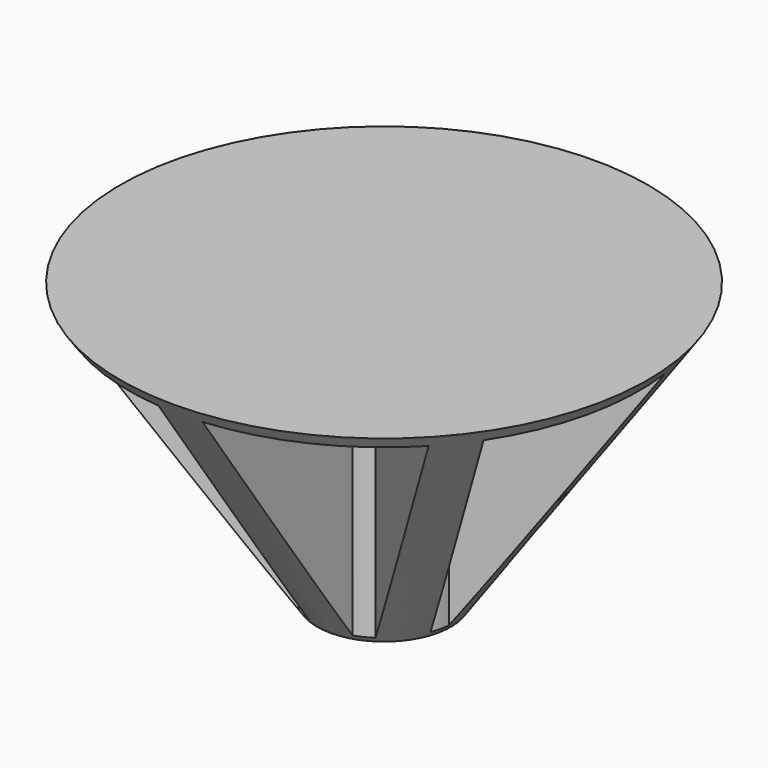
from build123d import *

# Parameters (mm, degrees)
F3_DEPTH = 38.862


with BuildPart() as f1:
    # F0 (on Right) → F1 (revolve)
    with BuildSketch(Plane.YZ):
        Polygon((-28.4521765367, 40.6339192084), (0, 0), (9.6478234633, 0), (9.6478234633, 40.6339192084), align=None)
    revolve(axis=Axis((0, 9.6478234633, 20.3169596042), (0, 0, 1)))

    # F2 (on face) → F3 (cut)
    with BuildSketch(Plane(origin=(0, 0, 0), x_dir=(1, 0, 0), z_dir=(0, 0, -1))):
        with BuildLine():
            ThreePointArc((-5.563392, -1.150188967), (-4.4068818173, -0.4968390776), (-3.175, 0))
            Line((-3.175, 0), (-3.175, 28.6594695933))
            ThreePointArc((-3.175, 28.6594695933), (-16.6779024372, 24.9841977976), (-27.9702675988, 16.7186980512))
            Line((-27.9702675988, 16.7186980512), (-5.563392, -1.1501889669))
        make_face()
        with BuildLine():
            ThreePointArc((3.175, 0), (4.4068818173, -0.4968390776), (5.563392, -1.150188967))
            Line((5.563392, -1.1501889669), (27.9702675988, 16.7186980512))
            ThreePointArc((27.9702675988, 16.7186980512), (16.6779024372, 24.9841977976), (3.175, 28.6594695933))
            Line((3.175, 28.6594695933), (3.175, 0))
        make_face()
        with BuildLine():
            ThreePointArc((9.5225522418, -6.1148188806), (9.9021735593, -7.3877169661), (10.1124363514, -8.6992700298))
            Line((10.1124363514, -8.6992700298), (38.0533532063, -15.0766019704))
            ThreePointArc((38.0533532063, -15.0766019704), (38.3422000558, -12.369040324), (38.4386436587, -9.6478234633))
            ThreePointArc((38.4386436587, -9.6478234633), (36.7753533315, 1.5371089757), (31.9294278406, 11.7540681375))
            Line((31.9294278406, 11.7540681375), (9.5225522418, -6.1148188806))
        make_face()
        with BuildLine():
            Line((36.6403452756, -21.2673942127), (8.6994284208, -14.8900622721))
            ThreePointArc((8.6994284208, -14.8900622721), (7.9409266437, -15.9805011447), (7.0466098742, -16.962631175))
            Line((7.0466098742, -16.962631175), (19.4814877024, -42.7839210491))
            ThreePointArc((19.4814877024, -42.7839210491), (30.0525417557, -33.6139257817), (36.6403452756, -21.2673942127))
        make_face()
        with BuildLine():
            Line((13.7603353913, -45.5390827925), (1.325457563, -19.7177929184))
            ThreePointArc((1.325457563, -19.7177929184), (0, -19.8046498661), (-1.325457563, -19.7177929184))
            Line((-1.325457563, -19.7177929184), (-13.7603353913, -45.5390827925))
            ThreePointArc((-13.7603353913, -45.5390827925), (0, -48.086467122), (13.7603353913, -45.5390827925))
        make_face()
        with BuildLine():
            Line((-19.4814877024, -42.7839210491), (-7.0466098742, -16.962631175))
            ThreePointArc((-7.0466098742, -16.962631175), (-7.9409266437, -15.9805011447), (-8.6994284208, -14.8900622721))
            Line((-8.6994284208, -14.8900622721), (-36.6403452756, -21.2673942127))
            ThreePointArc((-36.6403452756, -21.2673942127), (-30.0525417557, -33.6139257817), (-19.4814877024, -42.7839210491))
        make_face()
        with BuildLine():
            Line((-38.0533532063, -15.0766019704), (-10.1124363514, -8.6992700298))
            ThreePointArc((-10.1124363514, -8.6992700298), (-9.9021735593, -7.3877169661), (-9.5225522418, -6.1148188806))
            Line((-9.5225522418, -6.1148188806), (-31.9294278406, 11.7540681375))
            ThreePointArc((-31.9294278406, 11.7540681375), (-37.4749066093, -1.0944205763), (-38.0533532063, -15.0766019704))
        make_face()
    extrude(amount=-F3_DEPTH, mode=Mode.SUBTRACT)


solid = f1.part
